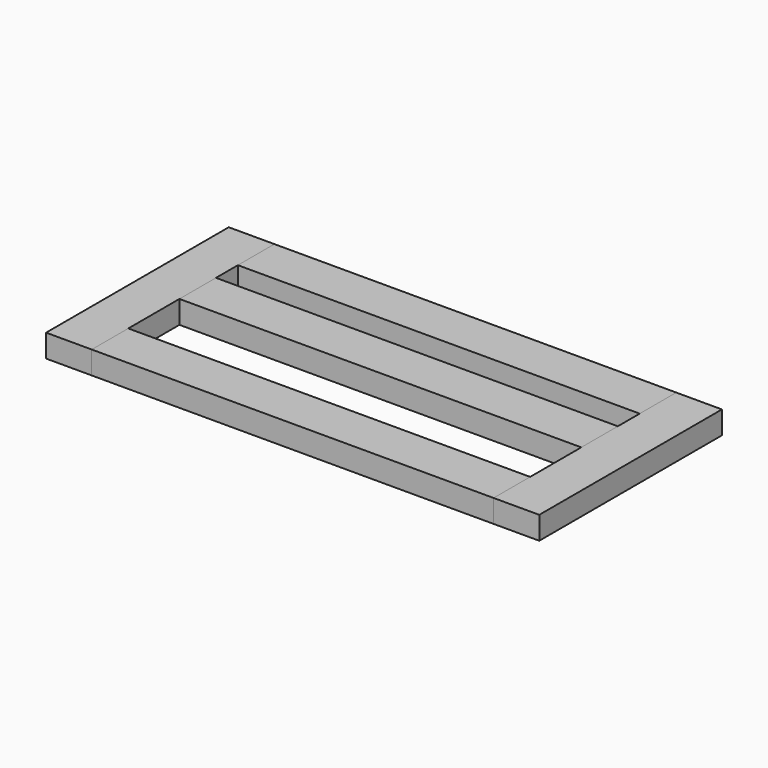
from build123d import *

# Parameters (mm, degrees)
F0_W          = 440
F0_H          = 50
F1_DEPTH      = 25
F2_W          = 50
F2_H          = 25
F3_DEPTH      = 225
F3_DEPTH_BACK = 25


with BuildPart() as f1:
    # F0 (on Top) → F1 (new body)
    with BuildSketch(Plane.XY):
        Rectangle(F0_W, F0_H)
    extrude(amount=F1_DEPTH)


with BuildPart() as f3:
    # F2 (on Front) → F3 (new body, two sides)
    with BuildSketch(Plane.XZ) as f3_sk:
        with Locations((245, 12.5)):
            Rectangle(F2_W, F2_H)
    extrude(amount=-F3_DEPTH)
    extrude(f3_sk.sketch, amount=F3_DEPTH_BACK)


with BuildPart() as f4_1:
    # F4: copy of F3
    add(f3.part.moved(Location((-490, 0, 0))))


with BuildPart() as f5_1:
    # F5: copy of F1
    add(f1.part.moved(Location((0, 200, 0))))


with BuildPart() as f6_1:
    # F6: copy of F1
    add(f1.part.moved(Location((0, 120, 0))))


solid = Compound([f1.part, f3.part, f4_1.part, f5_1.part, f6_1.part])
